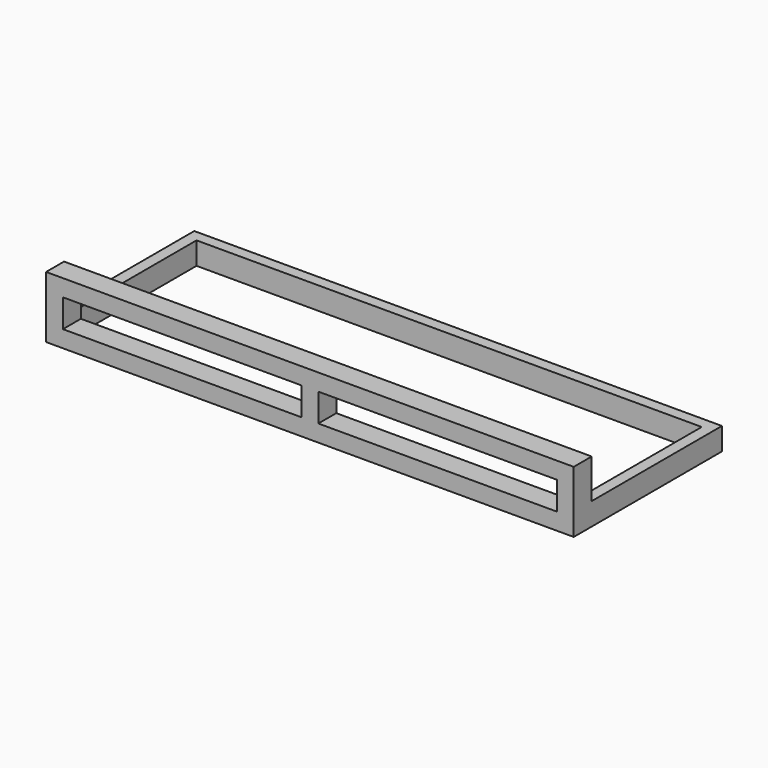
from build123d import *

# Parameters (mm, degrees)
F0_W     = 4775.2
F0_H     = 1676.4
F0_W_2   = 4572
F0_H_2   = 1371.6
F1_DEPTH = 203.2
F2_W     = 4775.2
F2_H     = 203.2
F3_DEPTH = 50.8
F4_W     = 152.4
F4_H     = 203.2
F5_DEPTH = 254
F6_W     = 4775.2
F6_H     = 203.2
F7_DEPTH = 152.4


with BuildPart() as f1:
    # F0 (on Top) → F1 (new body)
    with BuildSketch(Plane.XY):
        with Locations((0, -50.8)):
            Rectangle(F0_W, F0_H)
        Rectangle(F0_W_2, F0_H_2, mode=Mode.SUBTRACT)
    extrude(amount=F1_DEPTH)

    # F2 (on face) → F3 (cut)
    with BuildSketch(Plane.XY.offset(203.2)):
        with Locations((0, -787.4)):
            Rectangle(F2_W, F2_H)
    extrude(amount=-F3_DEPTH, mode=Mode.SUBTRACT)

    # F4 (on face) → F5 (join)
    with BuildSketch(Plane.XY.offset(152.4)):
        with Locations((-2311.4, -787.4)):
            Rectangle(F4_W, F4_H)
        with Locations((2311.4, -787.4)):
            Rectangle(F4_W, F4_H)
        with Locations((0, -787.4)):
            Rectangle(F4_W, F4_H)
    extrude(amount=F5_DEPTH)

    # F6 (on face) → F7 (join)
    with BuildSketch(Plane.XY.offset(406.4)):
        with Locations((0, -787.4)):
            Rectangle(F6_W, F6_H)
    extrude(amount=F7_DEPTH)


solid = f1.part
